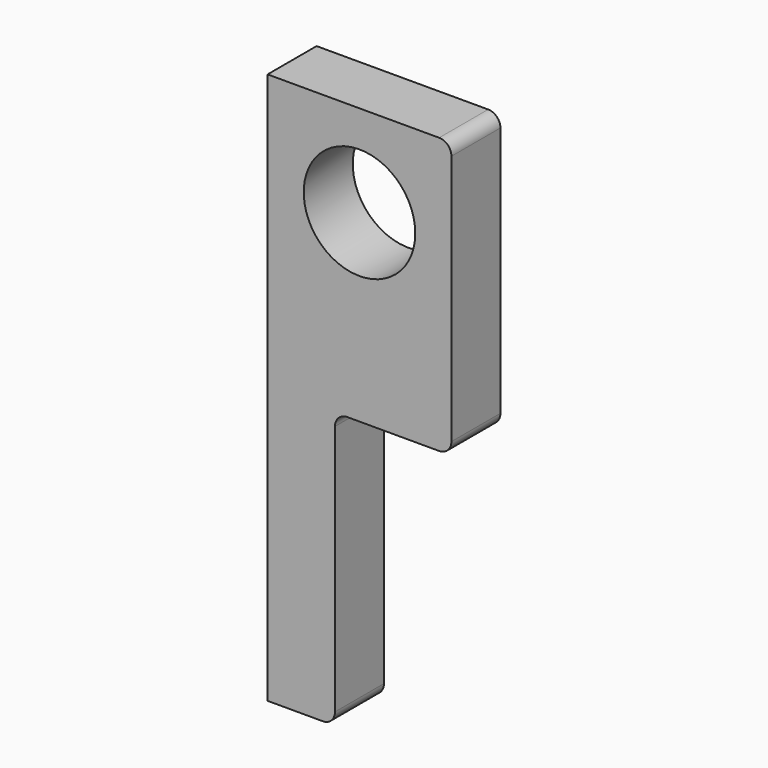
from build123d import *

# Parameters (mm, degrees)
F1_DEPTH = 10
F2_R     = 2
F3_R     = 9.1
F4_DEPTH = 25


with BuildPart() as f1:
    # F0 (on Front) → F1 (new body)
    with BuildSketch(Plane.XZ):
        Polygon((0, -45), (0, 0), (-30, 0), (-30, -90), (-19, -90), (-19, -45), align=None)
    extrude(amount=F1_DEPTH)

    # F2
    f2_edges = [f1.edges().sort_by_distance(p)[0] for p in [
        (-19, -5, -90),
        (0, -5, -45),
        (-19, -5, -45),
        (0, -5, 0),
    ]]
    fillet(f2_edges, radius=F2_R)

    # F3 (on face) → F4 (cut)
    with BuildSketch(Plane.XZ.offset(10)):
        with Locations((-15, -15)):
            Circle(F3_R)
    extrude(amount=-F4_DEPTH, mode=Mode.SUBTRACT)


solid = f1.part
